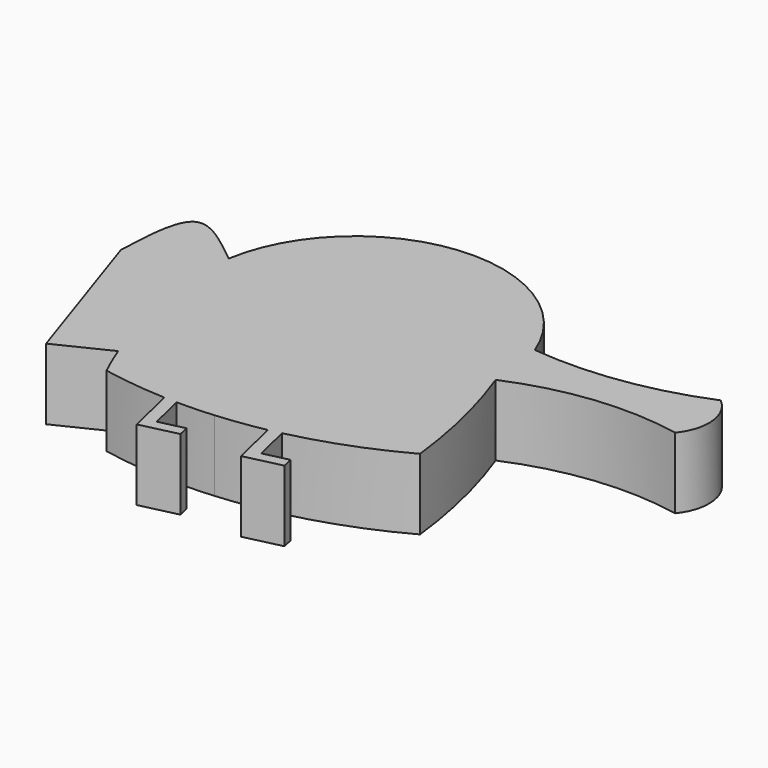
from build123d import *

# Parameters (mm, degrees)
F0_W     = 127
F0_H     = 127
F1_DEPTH = 12.7
F2_W     = 127
F2_H     = 127
F3_DEPTH = 25.4


with BuildPart() as f1:
    # F0 (on Top) → F1 (new body)
    with BuildSketch(Plane.XY):
        with Locations((-5.2748060389, -3.7782490253)):
            Rectangle(F0_W, F0_H)
    extrude(amount=F1_DEPTH)

    # F2 (on face) → F3 (cut)
    with BuildSketch(Plane.XY.offset(12.7)):
        with Locations((-5.2748060389, -3.7782490253)):
            Rectangle(F2_W, F2_H)
        with BuildLine():
            ThreePointArc((-45.0568873794, 18.5549733723), (-21.680808978, 40.5123780124), (5.5957227014, 23.6434871331))
            ThreePointArc((5.5957227014, 23.6434871331), (20.7619644282, 23.9522780163), (35.3910028934, 27.9649421573))
            ThreePointArc((35.3910028934, 27.9649421573), (38.3541893018, 22.3998611891), (36.5282259881, 16.3652561605))
            ThreePointArc((36.5282259881, 16.3652561605), (21.5049263239, 17.0007372687), (6.9639624681, 13.1714110634))
            ThreePointArc((6.9639624681, 13.1714110634), (10.555668828, 1.3136130229), (12.6937493314, -10.8903347278))
            ThreePointArc((12.6937493314, -10.8903347278), (6.4730682144, -13.9075075331), (0, -16.3364153508))
            ThreePointArc((0, -16.3364153508), (-3.1058492811, -17.2664709372), (-6.2491420152, -18.060834795))
            Line((-6.2491420152, -18.060834795), (-4.7052248427, -24.6445921262))
            Line((-4.7052248427, -24.6445921262), (-0.2844387127, -23.6079002679))
            Line((-0.2844387127, -23.6079002679), (0.160669737, -25.505985263))
            Line((0.160669737, -25.505985263), (-6.4033689389, -27.0452783327))
            Line((-6.4033689389, -27.0452783327), (-8.4020764283, -18.5221494234))
            ThreePointArc((-8.4020764283, -18.5221494234), (-12.6823960096, -19.2448601378), (-16.9974779801, -19.7176328979))
            ThreePointArc((-16.9974779801, -19.7176328979), (-20.2884334166, -19.9086672669), (-23.5846133504, -19.9542705577))
            Line((-23.5846133504, -19.9542705577), (-22.1019901652, -26.276650695))
            Line((-22.1019901652, -26.276650695), (-17.6166596284, -25.2248229177))
            Line((-17.6166596284, -25.2248229177), (-17.1715511787, -27.1229079127))
            Line((-17.1715511787, -27.1229079127), (-23.7623452954, -28.6684752393))
            Line((-23.7623452954, -28.6684752393), (-25.8180133273, -19.9024483329))
            ThreePointArc((-25.8180133273, -19.9024483329), (-31.5468119996, -19.4625349649), (-37.2248290455, -18.5834556595))
            ThreePointArc((-37.2248290455, -18.5834556595), (-38.4809946553, -15.7990470828), (-39.6320844368, -12.9695815014))
            Line((-39.6320844368, -12.9695815014), (-48.9112883806, -17.4878127873))
            Line((-48.9112883806, -17.4878127873), (-58.4690012038, 11.1827589571))
            add(Edge.make_bspline(
                [(-58.4690012038, 11.1827589571), (-58.2366652986, 17.2623036133), (-57.6099015071, 28.8951190176), (-49.4002085789, 21.9963852094), (-45.0568873794, 18.5549733723)],
                knots=[0, 0, 0, 0, 0.5142248233, 1, 1, 1, 1], degree=3))
        make_face(mode=Mode.SUBTRACT)
    extrude(amount=-F3_DEPTH, mode=Mode.SUBTRACT)


solid = f1.part
